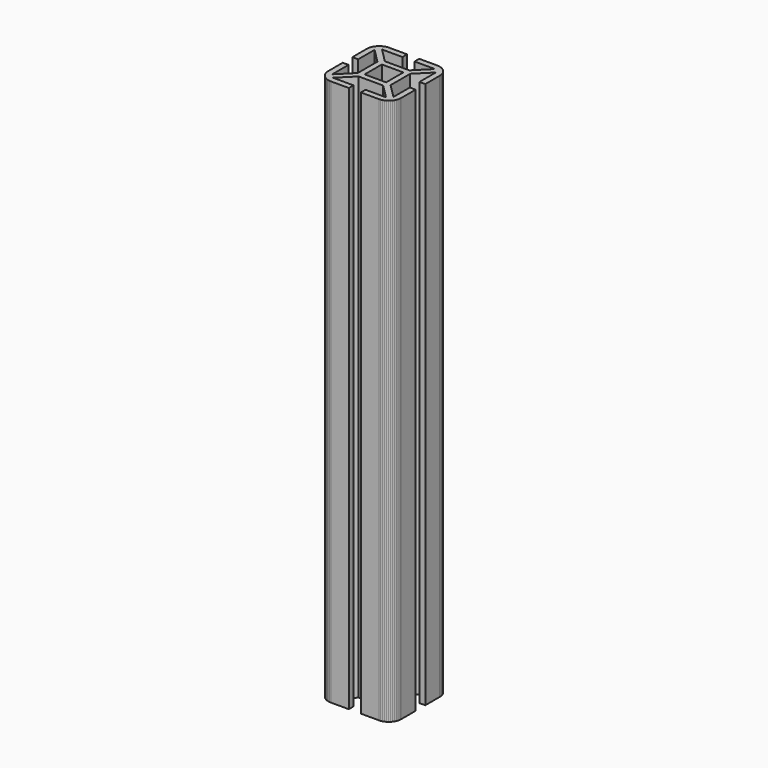
from build123d import *

# Parameters (mm, degrees)
F1_DEPTH = 150
F3_START = 143
F2_W     = 5.9
F2_H     = 5.9
F3_DEPTH = 14


with BuildPart() as f1:
    # F0 (on Top) → F1 (new body)
    with BuildSketch(Plane.XY):
        Polygon((-8.6642279688, 9.2944640897), (-9.0000005454, 9.0000005454), (-9.2944640897, 8.6642279688), (-9.5425827994, 8.2928939011), (-9.740108966, 7.8923494527), (-9.8836638753, 7.4694502231), (-9.9707914372, 7.0314308605), (-10, 6.5857868932), (-10, 1.6499997364), (-8.4000001454, 1.6499997364), (-8.4000001454, 7.2686289692), (-4.5000002727, 3.3686290964), (-4.5000002727, -3.3686290964), (-8.4000001454, -7.2686289692), (-8.4000001454, -1.6499997364), (-10, -1.6499997364), (-10, -6.5857868932), (-9.9707914372, -7.0314308605), (-9.8836638753, -7.4694502231), (-9.740108966, -7.8923494527), (-9.5425827994, -8.2928939011), (-9.2944640897, -8.6642279688), (-9.0000005454, -9.0000005454), (-8.6642279688, -9.2944640897), (-8.2928939011, -9.5425827994), (-7.8923494527, -9.740108966), (-7.4694502231, -9.8836638753), (-7.0314308605, -9.9707914372), (-6.5857868932, -10), (-1.6499997364, -10), (-1.6499997364, -8.4000001454), (-7.2686289692, -8.4000001454), (-3.3686290964, -4.5000002727), (3.3686290964, -4.5000002727), (7.2686289692, -8.4000001454), (1.6499997364, -8.4000001454), (1.6499997364, -10), (6.5857868932, -10), (7.0314308605, -9.9707914372), (7.4694502231, -9.8836638753), (7.8923494527, -9.740108966), (8.2928939011, -9.5425827994), (8.6642279688, -9.2944640897), (9.0000005454, -9.0000005454), (9.2944640897, -8.6642279688), (9.5425827994, -8.2928939011), (9.740108966, -7.8923494527), (9.8836638753, -7.4694502231), (9.9707914372, -7.0314308605), (10, -6.5857868932), (10, -1.6499997364), (8.4000001454, -1.6499997364), (8.4000001454, -7.2686289692), (4.5000002727, -3.3686290964), (4.5000002727, 3.3686290964), (8.4000001454, 7.2686289692), (8.4000001454, 1.6499997364), (10, 1.6499997364), (10, 6.5857868932), (9.9707914372, 7.0314308605), (9.8836638753, 7.4694502231), (9.740108966, 7.8923494527), (9.5425827994, 8.2928939011), (9.2944640897, 8.6642279688), (9.0000005454, 9.0000005454), (8.6642279688, 9.2944640897), (8.2928939011, 9.5425827994), (7.8923494527, 9.740108966), (7.4694502231, 9.8836638753), (7.0314308605, 9.9707914372), (6.5857868932, 10), (1.6499997364, 10), (1.6499997364, 8.4000001454), (7.2686289692, 8.4000001454), (3.3686290964, 4.5000002727), (-3.3686290964, 4.5000002727), (-7.2686289692, 8.4000001454), (-1.6499997364, 8.4000001454), (-1.6499997364, 10), (-6.5857868932, 10), (-7.0314308605, 9.9707914372), (-7.4694502231, 9.8836638753), (-7.8923494527, 9.740108966), (-8.2928939011, 9.5425827994), align=None)
    extrude(amount=F1_DEPTH)

    # F2 (on Top) → F3 (cut)
    with BuildSketch(Plane.XY.offset(F3_START)):
        Rectangle(F2_W, F2_H)
    extrude(amount=F3_DEPTH, mode=Mode.SUBTRACT)


solid = f1.part
